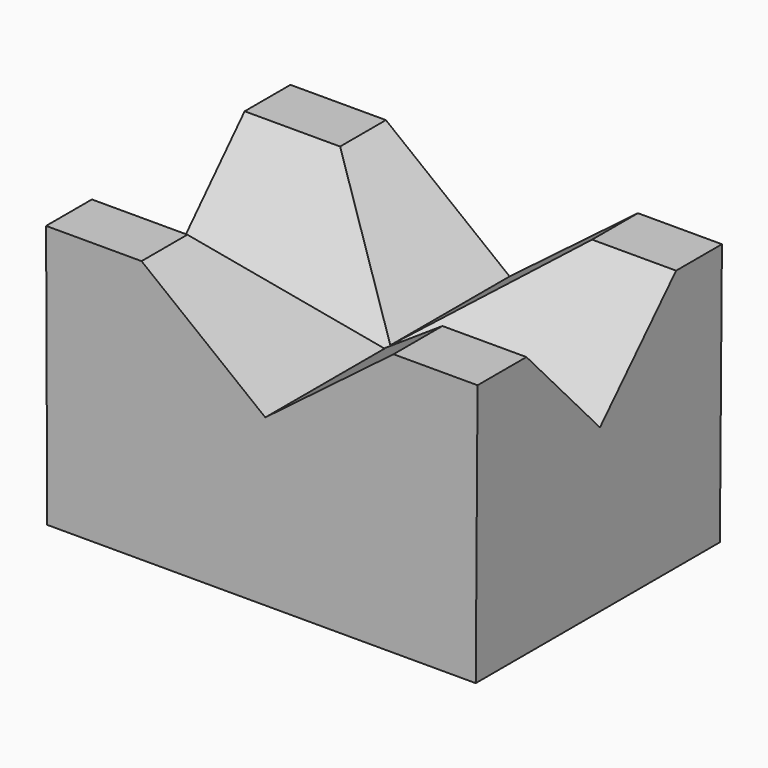
from build123d import *

# Parameters (mm, degrees)
F0_W   = 82.996623
F0_H   = 59.103658
F2_W   = 18.487399
F2_H   = 11.092441
F2_W_2 = 16.268921
F2_H_2 = 11.831935
F2_H_3 = 11.092439


with BuildPart() as f3:
    # F0 (on Top) → F3 section 0
    with BuildSketch(Plane.XY):
        with Locations((11.946483, -10.531769)):
            Rectangle(F0_W, F0_H)
    # F2 (on offset) → F3 section 1
    with BuildSketch(Plane.XY.offset(50.8)):
        with Locations((-20.656906, 13.695306)):
            Rectangle(F2_W, F2_H)
    loft()

    # F0 (on Top) → F4 section 0
    with BuildSketch(Plane.XY):
        with Locations((11.946483, -10.531769)):
            Rectangle(F0_W, F0_H)
    # F2 (on offset) → F4 section 1
    with BuildSketch(Plane.XY.offset(50.8)):
        with Locations((45.527997, -34.00219)):
            Rectangle(F2_W_2, F2_H_2)
    loft()

    # F0 (on Top) → F5 section 0
    with BuildSketch(Plane.XY):
        with Locations((11.946483, -10.531769)):
            Rectangle(F0_W, F0_H)
    # F2 (on offset) → F5 section 1
    with BuildSketch(Plane.XY.offset(50.8)):
        with Locations((-20.656906, -34.371938)):
            Rectangle(F2_W, F2_H_3)
    loft()

    # F0 (on Top) → F6 section 0
    with BuildSketch(Plane.XY):
        with Locations((11.946483, -10.531769)):
            Rectangle(F0_W, F0_H)
    # F2 (on offset) → F6 section 1
    with BuildSketch(Plane.XY.offset(50.8)):
        with Locations((45.527997, 13.695306)):
            Rectangle(F2_W_2, F2_H)
    loft()


solid = f3.part
